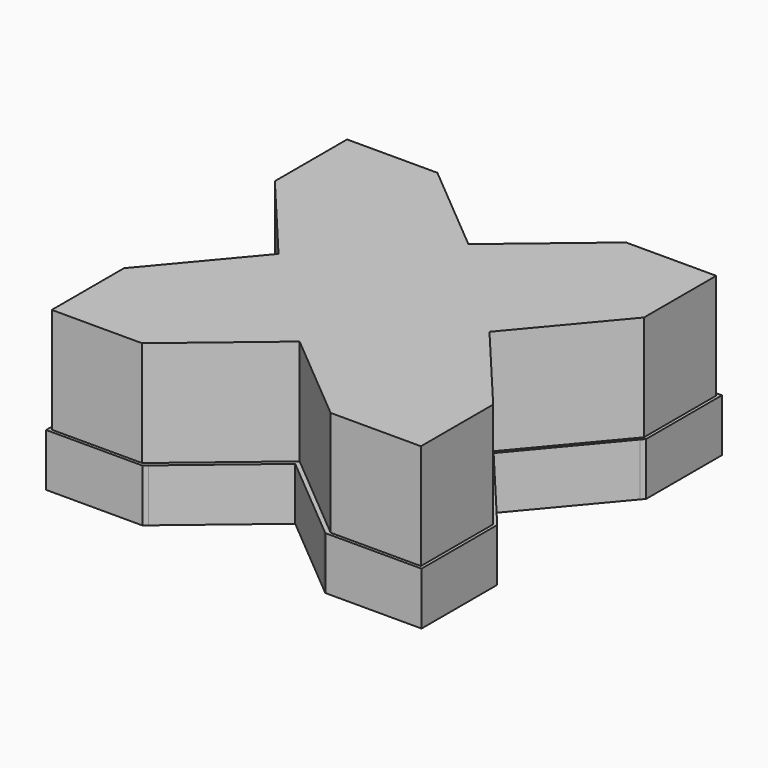
from build123d import *

# Parameters (mm, degrees)
F1_DEPTH = 75
F2_DEPTH = 25


with BuildPart() as f1:
    # F0 (on Top) → F1 (new body)
    with BuildSketch(Plane.XY):
        Polygon((87.5, 44.69076), (87.5, 87.5), (44.69076, 87.5), (0, 50), (-44.69076, 87.5), (-87.5, 87.5), (-87.5, 44.69076), (-50, 0), (-87.5, -44.69076), (-87.5, -87.5), (-44.69076, -87.5), (0, -50), (44.69076, -87.5), (87.5, -87.5), (87.5, -44.69076), (50, 0), align=None)
    extrude(amount=F1_DEPTH)


with BuildPart() as f2:
    # F0 (on Top) → F2 (new body)
    with BuildSketch(Plane.XY):
        Polygon((-44.69076, 87.5), (-41.579312, 87.5), (-43.366942, 89), (-89, 89), (-89, 43.366942), (-87.5, 41.579312), (-87.5, 44.69076), (-87.5, 87.5), align=None)
        Polygon((0, 50), (44.69076, 87.5), (41.579312, 87.5), (0, 52.610815), (-41.579312, 87.5), (-44.69076, 87.5), align=None)
        Polygon((-50, 0), (-87.5, 44.69076), (-87.5, 41.579312), (-52.610815, 0), (-87.5, -41.579312), (-87.5, -44.69076), align=None)
        Polygon((44.69076, 87.5), (87.5, 87.5), (87.5, 44.69076), (87.5, 42.357174), (89, 44.144804), (89, 89), (43.366942, 89), (41.579312, 87.5), align=None)
        Polygon((87.5, 42.357174), (87.5, 44.69076), (50, 0), (87.5, -44.69076), (87.5, -42.357174), (51.958111, 0), align=None)
        Polygon((87.5, 44.69076), (87.5, 87.5), (44.69076, 87.5), (0, 50), (-44.69076, 87.5), (-87.5, 87.5), (-87.5, 44.69076), (-50, 0), (-87.5, -44.69076), (-87.5, -87.5), (-44.69076, -87.5), (0, -50), (44.69076, -87.5), (87.5, -87.5), (87.5, -44.69076), (50, 0), align=None)
        Polygon((-87.5, -41.579312), (-89, -43.366942), (-89, -89), (-43.366942, -89), (-41.579312, -87.5), (-44.69076, -87.5), (-87.5, -87.5), (-87.5, -44.69076), align=None)
        Polygon((89, -44.144804), (87.5, -42.357174), (87.5, -44.69076), (87.5, -87.5), (44.69076, -87.5), (41.579312, -87.5), (43.366942, -89), (89, -89), align=None)
        Polygon((41.579312, -87.5), (44.69076, -87.5), (0, -50), (-44.69076, -87.5), (-41.579312, -87.5), (0, -52.610815), align=None)
    extrude(amount=F2_DEPTH)


solid = Compound([f1.part, f2.part])
